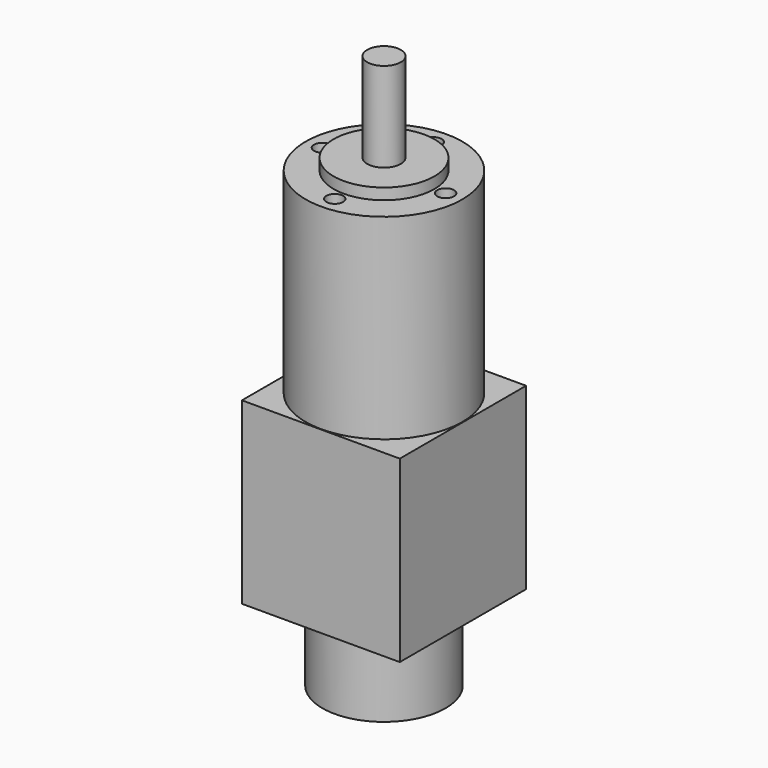
from build123d import *

# Parameters (mm, degrees)
SKETCH_W     = 28.2
SKETCH_H     = 28.2
PAD_DEPTH    = 32
SKETCH002_R  = 14
PAD001_DEPTH = 35
SKETCH003_R  = 9
PAD002_DEPTH = 2
SKETCH004_R  = 3
PAD003_DEPTH = 16
SKETCH005_R  = 11
PAD004_DEPTH = 14
SKETCH006_R  = 1.5
POCKET_DEPTH = 5


with BuildPart() as part:
    # Sketch → Pad (new body)
    with BuildSketch(Plane.XY):
        Rectangle(SKETCH_W, SKETCH_H)
    extrude(amount=PAD_DEPTH)

    # Sketch002 → Pad001 (join)
    with BuildSketch(Plane.XY.offset(32)):
        Circle(SKETCH002_R)
    extrude(amount=PAD001_DEPTH)

    # Sketch003 → Pad002 (join)
    with BuildSketch(Plane.XY.offset(67)):
        Circle(SKETCH003_R)
    extrude(amount=PAD002_DEPTH)

    # Sketch004 → Pad003 (join)
    with BuildSketch(Plane.XY.offset(69)):
        Circle(SKETCH004_R)
    extrude(amount=PAD003_DEPTH)

    # Sketch005 → Pad004 (join)
    with BuildSketch(Plane.XY):
        Circle(SKETCH005_R)
    extrude(amount=-PAD004_DEPTH)

    # Sketch006 → Pocket (cut)
    with BuildSketch(Plane(origin=(0, 0, 67), x_dir=(0.707107, 0.707107, 0), z_dir=(0, 0, 1))):
        with Locations((-7.778175, 7.778175)):
            Circle(SKETCH006_R)
        with Locations((7.778175, 7.778175)):
            Circle(SKETCH006_R)
        with Locations((7.778175, -7.778175)):
            Circle(SKETCH006_R)
        with Locations((-7.778175, -7.778175)):
            Circle(SKETCH006_R)
    extrude(amount=-POCKET_DEPTH, mode=Mode.SUBTRACT)


solid = part.part
